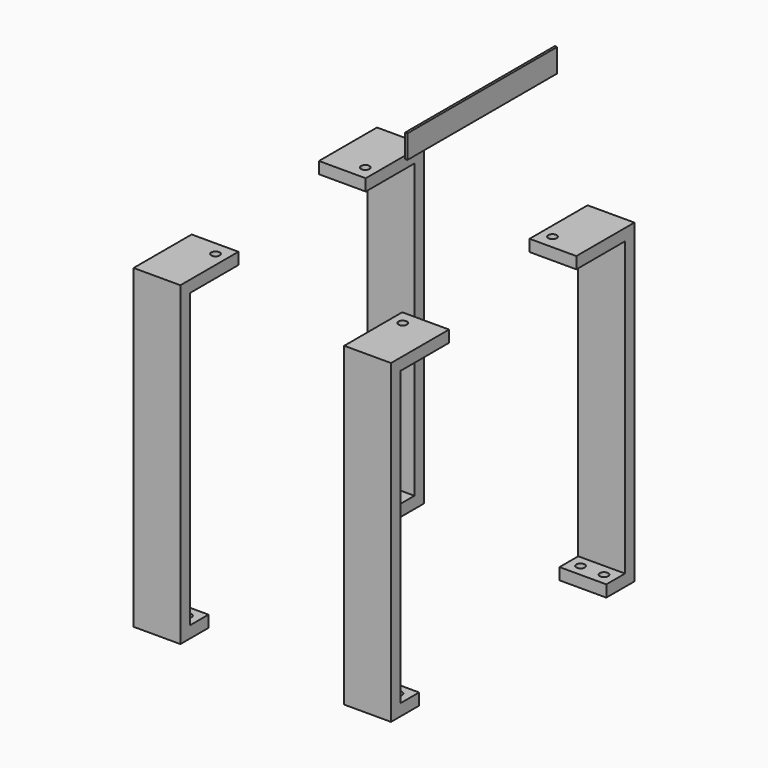
from build123d import *

# Parameters (mm, degrees)
CYLINDER_R              = 1.8
CYLINDER_DEPTH          = 50
CYLINDER002_R           = 1.8
CYLINDER002_DEPTH       = 10
ARRAY_X_COUNT           = 2
ARRAY_X_PITCH           = 10
PAD_DEPTH               = 20
BODY002_PLACEMENT_ANGLE = 180
BODY006_PLACEMENT_ANGLE = 180
BOX_W                   = 80
BOX_H                   = 1
BOX_DEPTH               = 10


with BuildPart() as cylinder:
    # Cylinder → Cylinder (new body)
    with BuildSketch(Plane(origin=(5, 40, 105), x_dir=(1, 0, 0), z_dir=(0, 0, 1))):
        Circle(CYLINDER_R)
    extrude(amount=CYLINDER_DEPTH)


with BuildPart() as cylinder002:
    # Cylinder002 → Cylinder002 (new body)
    with BuildSketch(Plane(origin=(5, 55, 0), x_dir=(1, 0, 0), z_dir=(0, 0, 1))):
        Circle(CYLINDER002_R)
    extrude(amount=CYLINDER002_DEPTH)


with BuildPart() as array:
    # Array base: copy of Cylinder002
    add(cylinder002.part)

    # Array X: Array ×2


with BuildPart() as array_1:
    add(array.part)
    with Locations(*[(i * ARRAY_X_PITCH, 0, 0) for i in range(1, ARRAY_X_COUNT)]):
        add(array.part)


with BuildPart() as fusion:
    # Fusion base: copy of Cylinder002
    add(cylinder002.part)

    # Fusion: union Cylinder, Array
    add(cylinder.part)
    add(array_1.part)


with BuildPart() as bracket_left:
    # Sketch → Pad (new body)
    with BuildSketch(Plane.YZ):
        Polygon((65, 138), (65, 3), (50, 3), (50, 8), (60, 8), (60, 133), (34, 133), (34, 138), align=None)
    extrude(amount=PAD_DEPTH)

    # Cut: cut Fusion
    add(fusion.part, mode=Mode.SUBTRACT)


with BuildPart() as bracket_left_1:
    # Cut placement: moved
    add(bracket_left.part.moved(Location((-6, 0, 0))))


with BuildPart() as body_bracket_left:
    # Body002 base: copy of bracket left
    add(bracket_left_1.part)


with BuildPart() as body_bracket_left_1:
    # Clone placement: moved
    add(body_bracket_left.part.moved(Location((6, 0, 0))))


with BuildPart() as body_bracket_left_2:
    # Body002 placement: moved
    add(body_bracket_left_1.part.moved(Location((-76, 0, 0))).rotate(Axis((-76, 0, 0), (0, 0, 1)), BODY002_PLACEMENT_ANGLE))


with BuildPart() as bracket_right:
    # Part__Mirroring: instance of bracket left
    add(bracket_left_1.part.mirror(Plane(origin=(0, 0, 0), x_dir=(1, 0, 0), z_dir=(0, 1, 0))))


with BuildPart() as body_bracket_right:
    # Body003 base: copy of bracket right
    add(bracket_right.part)


with BuildPart() as body_bracket_left001:
    # Body005 base: copy of bracket left
    add(bracket_left_1.part)


with BuildPart() as body_bracket_left001_1:
    # Clone002 placement: moved
    add(body_bracket_left001.part.moved(Location((6, 0, 0))))


with BuildPart() as body_bracket_left001_2:
    # Body005 placement: moved
    add(body_bracket_left001_1.part.moved(Location((-6, 0, 0))))


with BuildPart() as body_bracket_right001:
    # Body006 base: copy of bracket right
    add(bracket_right.part)


with BuildPart() as body_bracket_right001_1:
    # Body006 placement: moved
    add(body_bracket_right001.part.moved(Location((-82, 0, 0))).rotate(Axis((-82, 0, 0), (0, 0, 1)), BODY006_PLACEMENT_ANGLE))


with BuildPart() as cube:
    # Box → Box (new body)
    with BuildSketch(Plane(origin=(1, -40, 200), x_dir=(0, 1, 0), z_dir=(0, 0, 1))):
        with Locations((40, 0.5)):
            Rectangle(BOX_W, BOX_H)
    extrude(amount=BOX_DEPTH)


solid = Compound([body_bracket_left_2.part, body_bracket_right.part, body_bracket_left001_2.part, body_bracket_right001_1.part, cube.part])
